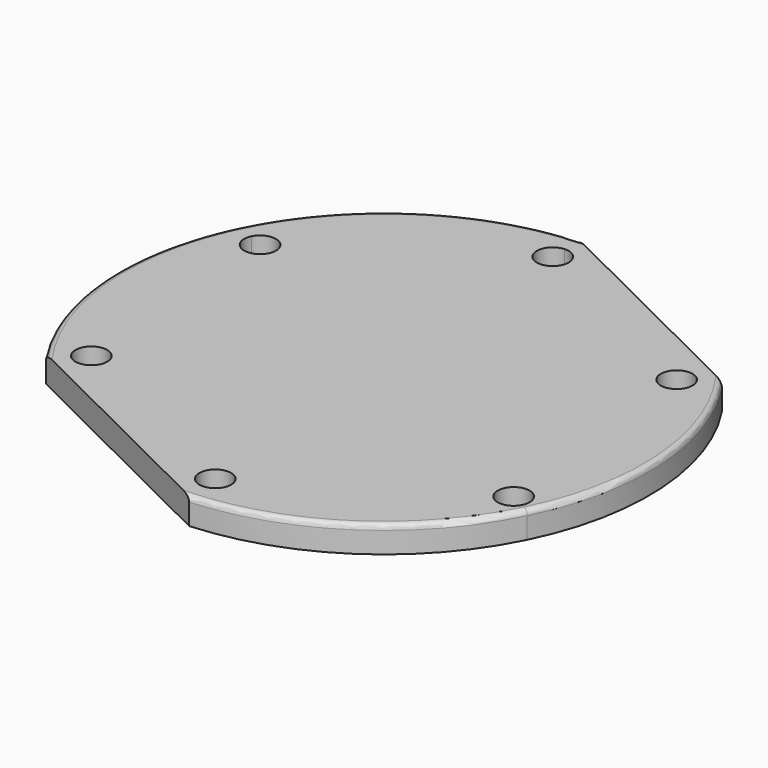
from build123d import *

# Parameters (mm, degrees)
F1_DEPTH = 5
F2_R     = 1


with BuildPart() as f1:
    # F0 (on Top) → F1 (new body)
    with BuildSketch(Plane.XY):
        with BuildLine():
            Line((41.6396895486, 27.6791664307), (-3.1510165103, 49.9006121701))
            ThreePointArc((-3.1510165103, 49.9006121701), (-44.7907060588, 22.2214457394), (-41.6396895486, -27.6791664307))
            Line((-41.6396895486, -27.6791664307), (3.1510165103, -49.9006121701))
            ThreePointArc((3.1510165103, -49.9006121701), (27.6791664307, -41.6396895486), (44.7907060588, -22.2214457394))
            ThreePointArc((44.7907060588, -22.2214457394), (49.9006121701, 3.1510165103), (41.6396895486, 27.6791664307))
        make_face()
        with BuildLine():
            ThreePointArc((-33.0610289548, -23.9708612845), (-35.1936029115, -26.8427199265), (-38.5594103277, -25.6316112704))
            ThreePointArc((-38.5594103277, -25.6316112704), (-36.9284549981, -21.0990026426), (-33.0610289548, -23.9708612845))
        make_face(mode=Mode.SUBTRACT)
        with BuildLine():
            ThreePointArc((5.7288603456, -43.2151978037), (4.916002656, -45.2685873221), (2.9179213362, -46.2092345339))
            ThreePointArc((2.9179213362, -46.2092345339), (0.5417180352, -41.1618082854), (5.7288603456, -43.2151978037))
        make_face(mode=Mode.SUBTRACT)
        with BuildLine():
            ThreePointArc((43.5815175428, -20.1331943487), (43.5023331044, -20.8179106803), (43.2689599063, -21.4664810931))
            ThreePointArc((43.2689599063, -21.4664810931), (37.6607019811, -19.4484780172), (43.5815175428, -20.1331943487))
        make_face(mode=Mode.SUBTRACT)
        with BuildLine():
            ThreePointArc((-41.4773316639, 20.5776232635), (-38.1051729688, 22.1651520808), (-35.7898893004, 19.2443365192))
            ThreePointArc((-35.7898893004, 19.2443365192), (-39.474605632, 16.3235209575), (-41.4773316639, 20.5776232635))
        make_face(mode=Mode.SUBTRACT)
        with BuildLine():
            ThreePointArc((0.2711396544, 43.2151978037), (-4.782249864, 41.0280554933), (-2.9179213362, 46.2092345339))
            ThreePointArc((-2.9179213362, 46.2092345339), (-0.6754708273, 45.4023401141), (0.2711396544, 43.2151978037))
        make_face(mode=Mode.SUBTRACT)
        with BuildLine():
            ThreePointArc((39.0610289548, 23.9708612845), (33.1891703128, 23.1034352412), (38.5594103277, 25.6316112704))
            ThreePointArc((38.5594103277, 25.6316112704), (38.9328875967, 24.8382873279), (39.0610289548, 23.9708612845))
        make_face(mode=Mode.SUBTRACT)
    extrude(amount=F1_DEPTH)

    # F2
    f2_edges = [f1.edges().sort_by_distance(p)[0] for p in [
        (-44.790706, 22.221446, 5),
        (44.790706, -22.221446, 5),
    ]]
    fillet(f2_edges, radius=F2_R)


solid = f1.part
